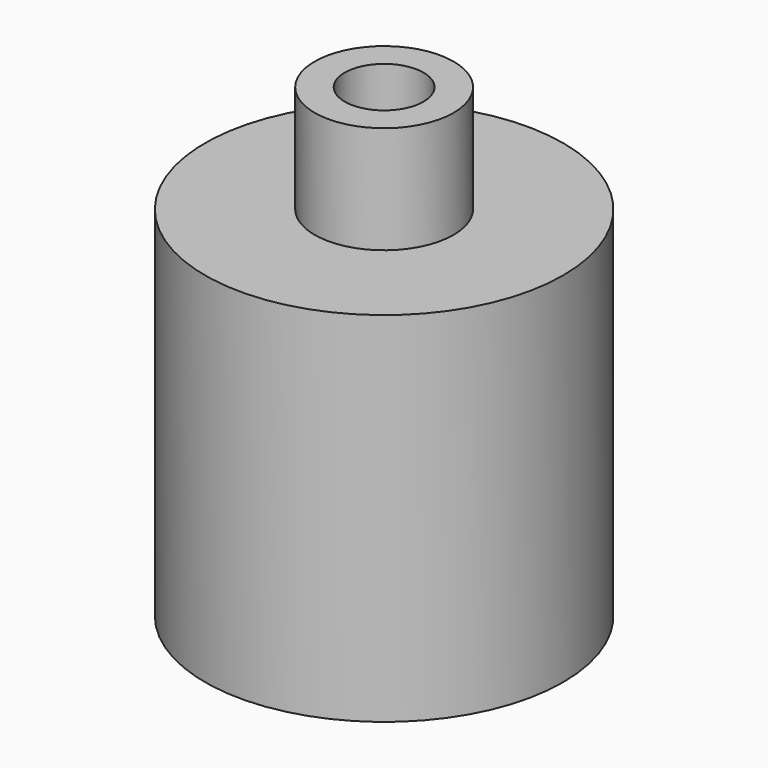
from build123d import *

# Parameters (mm, degrees)
SKETCH226_R     = 2.5
SKETCH226_R_2   = 0.5
PAD146_DEPTH    = 1
SKETCH199_R     = 0.97
SKETCH199_R_2   = 0.55
PAD149_DEPTH    = 1.5
SKETCH305_R     = 2.5
SKETCH305_R_2   = 1.5
PAD210_DEPTH    = 4
CHAMFER002_SIZE = 0.95


with BuildPart() as part:
    # Sketch226 → Pad146 (new body)
    with BuildSketch(Plane.XY):
        Circle(SKETCH226_R)
        Circle(SKETCH226_R_2, mode=Mode.SUBTRACT)
    extrude(amount=PAD146_DEPTH)

    # Sketch199 (on Face4 of Pad146) → Pad149 (join)
    with BuildSketch(Plane.XY.offset(1)):
        Circle(SKETCH199_R)
        Circle(SKETCH199_R_2, mode=Mode.SUBTRACT)
    extrude(amount=PAD149_DEPTH)

    # Sketch305 (on Face2 of Pad149) → Pad210 (join)
    with BuildSketch(Plane(origin=(0, 0, 0), x_dir=(1, 0, 0), z_dir=(0, 0, -1))):
        Circle(SKETCH305_R)
        Circle(SKETCH305_R_2, mode=Mode.SUBTRACT)
    extrude(amount=PAD210_DEPTH)

    # Chamfer002
    chamfer002_edges = [part.edges().sort_by_distance(p)[0] for p in [
        (-1.5, 0, 0),
    ]]
    chamfer(chamfer002_edges, length=CHAMFER002_SIZE)


with BuildPart() as part_1:
    # Body023 placement: moved
    add(part.part.moved(Location((0, 0, -2.2))))


solid = part_1.part
